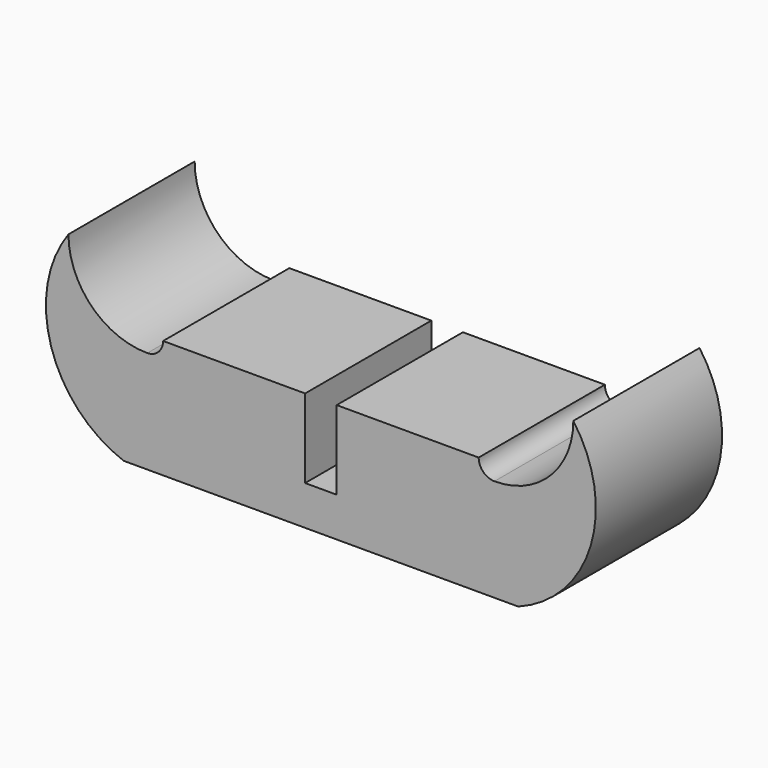
from build123d import *

# Parameters (mm, degrees)
F1_DEPTH = 25.4


with BuildPart() as f1:
    # F0 (on Front) → F1 (new body)
    with BuildSketch(Plane.XZ):
        with BuildLine():
            Line((2.54, -12.7), (0, -12.7))
            Line((0, -12.7), (0, -19.05))
            Line((0, -19.05), (31.75, -19.05))
            ThreePointArc((31.75, -19.05), (43.432683, -6.647773), (40.64, 10.16))
            ThreePointArc((40.64, 10.16), (36.920256, 1.179744), (27.94, -2.54))
            ThreePointArc((27.94, -2.54), (26.143949, -1.796051), (25.4, 0))
            Line((25.4, 0), (19.05, 0))
            Line((19.05, 0), (2.54, 0))
            Line((2.54, 0), (2.54, -12.7))
        make_face()
        with BuildLine():
            Line((-2.54, -12.7), (-2.54, 0))
            Line((-2.54, 0), (-19.05, 0))
            Line((-19.05, 0), (-25.4, 0))
            ThreePointArc((-25.4, 0), (-26.143949, -1.796051), (-27.94, -2.54))
            ThreePointArc((-27.94, -2.54), (-36.920256, 1.179744), (-40.64, 10.16))
            ThreePointArc((-40.64, 10.16), (-43.432683, -6.647773), (-31.75, -19.05))
            Line((-31.75, -19.05), (0, -19.05))
            Line((0, -19.05), (0, -12.7))
            Line((0, -12.7), (-2.54, -12.7))
        make_face()
    extrude(amount=F1_DEPTH)


solid = f1.part
